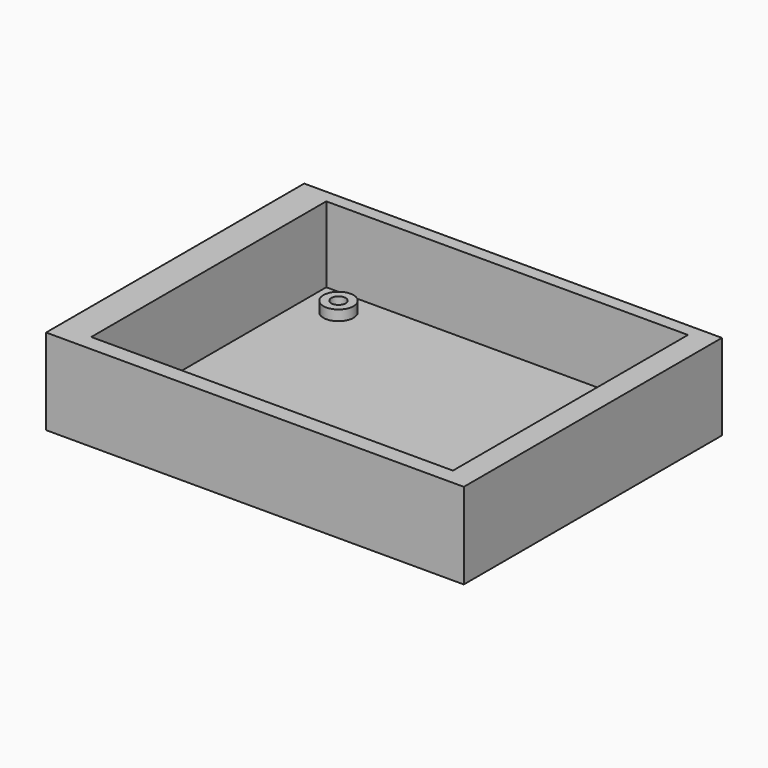
from build123d import *

# Parameters (mm, degrees)
F0_R     = 4.368757
F0_R_2   = 2.095327
F0_R_3   = 4.743502
F0_R_4   = 2.276644
F1_DEPTH = 6
F0_W     = 105.195061
F0_H     = 85.440118
F2_DEPTH = 3
F0_W_2   = 121.492885
F0_H_2   = 93.835965
F3_DEPTH = 25


with BuildPart() as f1:
    # F0 (on Top) → F1 (new body)
    with BuildSketch(Plane.XY):
        with Locations((-51.115908, 25.43449)):
            Circle(F0_R)
        with Locations((-51.115908, 25.43449)):
            Circle(F0_R_2, mode=Mode.SUBTRACT)
        with Locations((31.114029, -41.732308)):
            Circle(F0_R_3)
        with Locations((31.114029, -41.732308)):
            Circle(F0_R_4, mode=Mode.SUBTRACT)
    extrude(amount=F1_DEPTH)


with BuildPart() as f2:
    # F0 (on Top) → F2 (new body)
    with BuildSketch(Plane.XY):
        with Locations((-8.395851, -9.383595)):
            Rectangle(F0_W, F0_H)
        with Locations((31.114029, -41.732308)):
            Circle(F0_R_3, mode=Mode.SUBTRACT)
        with Locations((-51.115908, 25.43449)):
            Circle(F0_R, mode=Mode.SUBTRACT)
    extrude(amount=F2_DEPTH)

    # F0 (on Top) → F3 (join)
    with BuildSketch(Plane.XY):
        with Locations((-9.630534, -9.877465)):
            Rectangle(F0_W_2, F0_H_2)
        with Locations((-8.395851, -9.383595)):
            Rectangle(F0_W, F0_H, mode=Mode.SUBTRACT)
    extrude(amount=F3_DEPTH)


solid = Compound([f1.part, f2.part])
